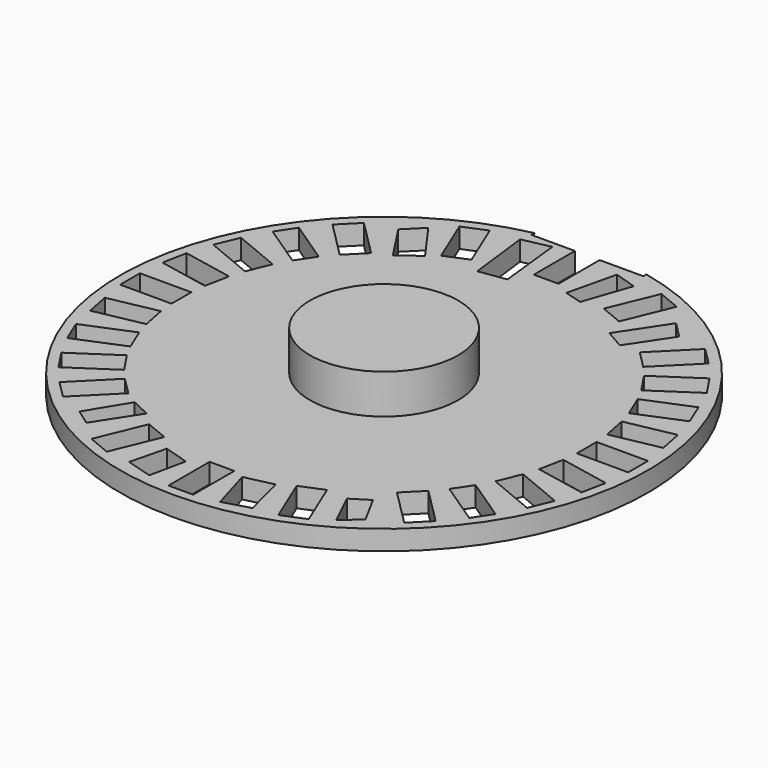
from build123d import *

# Parameters (mm, degrees)
SKETCH_R        = 26.7
PAD_DEPTH       = 2
SKETCH001_W     = 5.2
SKETCH001_H     = 2.5
SKETCH001_W_2   = 2.5
SKETCH001_H_2   = 5.2
POCKET_DEPTH    = 2.001
SKETCH002_R     = 6
POCKET001_DEPTH = 2.001
SKETCH003_R     = 7.5
PAD001_DEPTH    = 4
SKETCH004_R     = 6
POCKET002_DEPTH = 1.001
SKETCH005_W     = 2
SKETCH005_H     = 2.479431
SKETCH005_H_2   = 2.486512
POCKET003_DEPTH = 1


with BuildPart() as part:
    # Sketch → Pad (new body)
    with BuildSketch(Plane.XY):
        Circle(SKETCH_R)
    extrude(amount=PAD_DEPTH)

    # Sketch001 → Pocket (cut, through all)
    with BuildSketch(Plane.XY.offset(2)):
        with Locations((-23.1, 0)):
            Rectangle(SKETCH001_W, SKETCH001_H)
        with Locations((23.1, 0)):
            Rectangle(SKETCH001_W, SKETCH001_H)
        with Locations((0, 23.1)):
            Rectangle(SKETCH001_W_2, SKETCH001_H_2)
        with Locations((0, -23.1)):
            Rectangle(SKETCH001_W_2, SKETCH001_H_2)
        Polygon((-19.029555, 17.261788), (-17.261788, 19.029555), (-13.584833, 15.3526), (-15.3526, 13.584833), align=None)
        Polygon((17.261788, 19.029555), (19.029555, 17.261788), (15.3526, 13.584833), (13.584833, 15.3526), align=None)
        Polygon((17.261788, -19.029555), (19.029555, -17.261788), (15.3526, -13.584833), (13.584833, -15.3526), align=None)
        Polygon((-17.261788, -19.029555), (-19.029555, -17.261788), (-15.3526, -13.584833), (-13.584833, -15.3526), align=None)
        Polygon((8.680115, 24.222058), (6.690161, 19.417885), (8.99986, 18.461176), (10.989814, 23.26535), align=None)
        Polygon((18.461176, 8.99986), (19.417885, 6.690161), (24.037282, 8.603578), (23.080574, 10.913277), align=None)
        Polygon((-23.26535, 10.989814), (-24.222058, 8.680115), (-19.417885, 6.690161), (-18.461176, 8.99986), align=None)
        Polygon((-24.222058, -8.680115), (-23.26535, -10.989814), (-18.461176, -8.99986), (-19.417885, -6.690161), align=None)
        Polygon((-10.989814, -23.26535), (-8.680115, -24.222058), (-6.690161, -19.417885), (-8.99986, -18.461176), align=None)
        Polygon((6.690161, -19.417885), (8.680115, -24.222058), (10.989814, -23.26535), (8.99986, -18.461176), align=None)
        Polygon((19.417885, -6.690161), (18.461176, -8.99986), (23.26535, -10.989814), (24.222058, -8.680115), align=None)
        Polygon((-10.989814, 23.26535), (-8.680115, 24.222058), (-6.690161, 19.417885), (-8.99986, 18.461176), align=None)
        Polygon((19.862235, 5.225333), (20.349961, 2.77337), (25.253888, 3.748822), (24.766162, 6.200785), align=None)
        Polygon((-25.253888, -3.748822), (-24.766162, -6.200785), (-19.862235, -5.225333), (-20.349961, -2.77337), align=None)
        Polygon((-24.962319, 6.239803), (-25.450045, 3.78784), (-20.349961, 2.77337), (-19.862235, 5.225333), align=None)
        Polygon((-20.764428, 15.182615), (-21.97311, 13.373695), (-17.649468, 10.48473), (-16.440786, 12.29365), align=None)
        Polygon((-14.45738, 19.861687), (-12.767282, 21.551783), (-9.972119, 17.651556), (-11.987236, 16.091467), align=None)
        Polygon((-5.876879, 24.541956), (-3.081719, 25.126991), (-2.366674, 18.561611), (-5.096836, 18.171587), align=None)
        Polygon((3.873685, 24.60696), (2.70362, 19.666674), (4.523721, 19.146645), (6.148817, 23.891918), align=None)
        Polygon((12.714202, 21.031754), (9.659025, 16.416485), (11.609138, 15.311421), (14.339291, 19.406658), align=None)
        Polygon((16.350664, 12.428527), (17.73959, 10.349853), (22.063232, 13.238818), (20.674306, 15.317492), align=None)
        Polygon((20.349961, -2.77337), (19.862235, -5.225333), (24.962319, -6.239803), (25.450045, -3.78784), align=None)
        Polygon((17.649468, -10.48473), (16.440786, -12.29365), (20.764428, -15.182615), (21.97311, -13.373695), align=None)
        Polygon((11.154702, -18.639545), (12.909801, -17.534479), (14.534897, -20.524654), (12.779791, -22.019741), align=None)
        Polygon((2.379186, -20.914677), (5.239352, -20.264639), (6.344416, -24.554888), (3.679265, -25.334934), align=None)
        Polygon((-2.756109, -21.629719), (-3.536156, -25.26993), (-6.201311, -24.489885), (-5.291257, -20.849672), align=None)
        Polygon((-14.651802, -20.199635), (-13.026706, -21.369703), (-10.296549, -17.144459), (-12.246662, -16.234406), align=None)
        Polygon((-22.063232, -13.238818), (-20.674306, -15.317492), (-16.350664, -12.428527), (-17.73959, -10.349853), align=None)
    extrude(amount=-POCKET_DEPTH, mode=Mode.SUBTRACT)

    # Sketch002 → Pocket001 (cut, through all)
    with BuildSketch(Plane.XY.offset(2)):
        Circle(SKETCH002_R)
    extrude(amount=-POCKET001_DEPTH, mode=Mode.SUBTRACT)

    # Sketch003 → Pad001 (new body)
    with BuildSketch(Plane.XY.offset(2)):
        Circle(SKETCH003_R)
    extrude(amount=PAD001_DEPTH)

    # Sketch004 → Pocket002 (cut, through all)
    with BuildSketch(Plane.XZ.offset(-25.7)):
        Circle(SKETCH004_R)
    extrude(amount=-POCKET002_DEPTH, mode=Mode.SUBTRACT)

    # Sketch005 → Pocket003 (cut)
    with BuildSketch(Plane(origin=(0, 25.7, 0), x_dir=(-1, 0, 0), z_dir=(0, 1, 0))):
        with Locations((0, -6.731688)):
            Rectangle(SKETCH005_W, SKETCH005_H)
        with Locations((0, 6.735229)):
            Rectangle(SKETCH005_W, SKETCH005_H_2)
    extrude(amount=-POCKET003_DEPTH, mode=Mode.SUBTRACT)


solid = part.part
